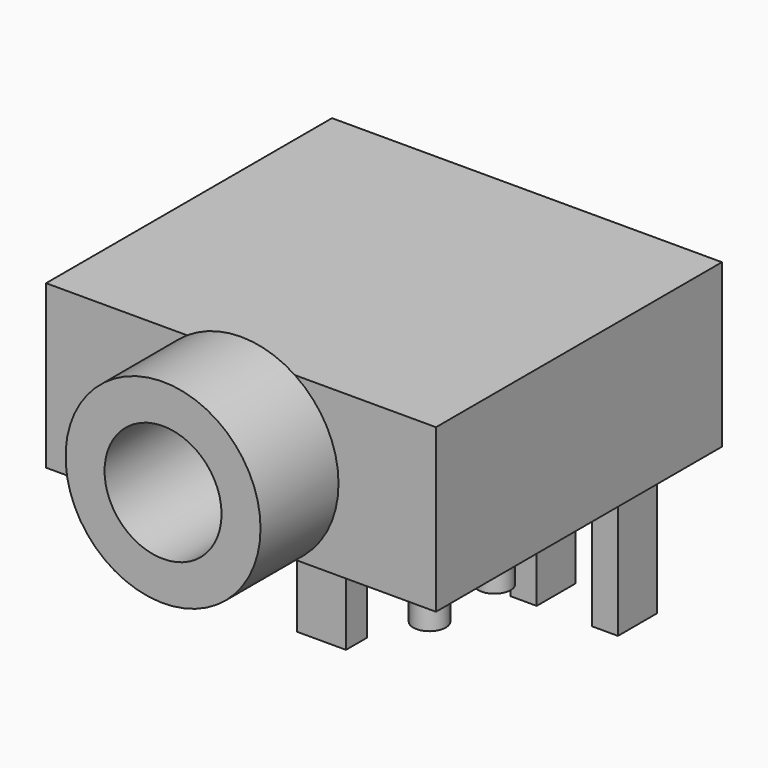
from build123d import *

# Parameters (mm, degrees)
SKETCH002_R   = 0.5
PAD002_DEPTH  = 1
SKETCH003_W   = 0.8
SKETCH003_H   = 1.5
SKETCH003_W_2 = 1.5
SKETCH003_H_2 = 0.8
PAD003_DEPTH  = 4
SKETCH_W      = 12
SKETCH_H      = 11
PAD_DEPTH     = 5
SKETCH001_R   = 3
PAD001_DEPTH  = 3
SKETCH004_R   = 1.8
POCKET_DEPTH  = 8


with BuildPart() as pad002:
    # Sketch002 → Pad002 (new body)
    with BuildSketch(Plane(origin=(0, 0, 0), x_dir=(1, 0, 0), z_dir=(0, 0, -1))):
        with Locations((-11, -1)):
            Circle(SKETCH002_R)
        with Locations((-1, -1)):
            Circle(SKETCH002_R)
        with Locations((-11, -3.5)):
            Circle(SKETCH002_R)
        with Locations((-1, -3.5)):
            Circle(SKETCH002_R)
        with Locations((-6, -8.5)):
            Circle(SKETCH002_R)
    extrude(amount=PAD002_DEPTH)


with BuildPart() as pad003:
    # Sketch003 → Pad003 (new body)
    with BuildSketch(Plane(origin=(0, 0, 0), x_dir=(1, 0, 0), z_dir=(0, 0, -1))):
        with Locations((-11, -8.5)):
            Rectangle(SKETCH003_W, SKETCH003_H)
        with Locations((-8.5, -8.5)):
            Rectangle(SKETCH003_W, SKETCH003_H)
        with Locations((-3.5, -8.5)):
            Rectangle(SKETCH003_W, SKETCH003_H)
        with Locations((-1, -8.5)):
            Rectangle(SKETCH003_W, SKETCH003_H)
        with Locations((-6, -3.5)):
            Rectangle(SKETCH003_W_2, SKETCH003_H_2)
    extrude(amount=PAD003_DEPTH)


with BuildPart() as pocket:
    # Sketch → Pad (new body)
    with BuildSketch(Plane.XY):
        with Locations((-6, 5.5)):
            Rectangle(SKETCH_W, SKETCH_H)
    extrude(amount=PAD_DEPTH)

    # Sketch001 → Pad001 (new body)
    with BuildSketch(Plane.XZ):
        with Locations((-6, 2.5)):
            Circle(SKETCH001_R)
    extrude(amount=PAD001_DEPTH)

    # Sketch004 → Pocket (cut)
    with BuildSketch(Plane.XZ.offset(3)):
        with Locations((-6, 2.5)):
            Circle(SKETCH004_R)
    extrude(amount=-POCKET_DEPTH, mode=Mode.SUBTRACT)


solid = Compound([pad002.part, pad003.part, pocket.part])
